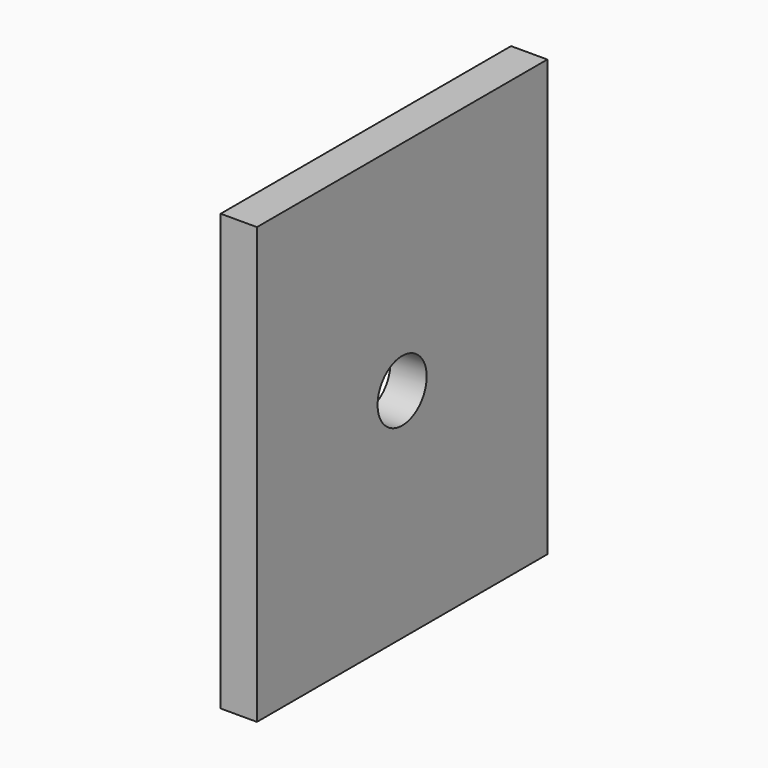
from build123d import *

# Parameters (mm, degrees)
F0_W     = 25.4
F0_H     = 30.48
F0_R     = 2.148826
F1_DEPTH = 2.54


with BuildPart() as f1:
    # F0 (on Right) → F1 (new body)
    with BuildSketch(Plane.YZ):
        with Locations((-35.657376, 40.926555)):
            Rectangle(F0_W, F0_H)
        with Locations((-35.657376, 40.926555)):
            Circle(F0_R, mode=Mode.SUBTRACT)
    extrude(amount=-F1_DEPTH)


solid = f1.part
